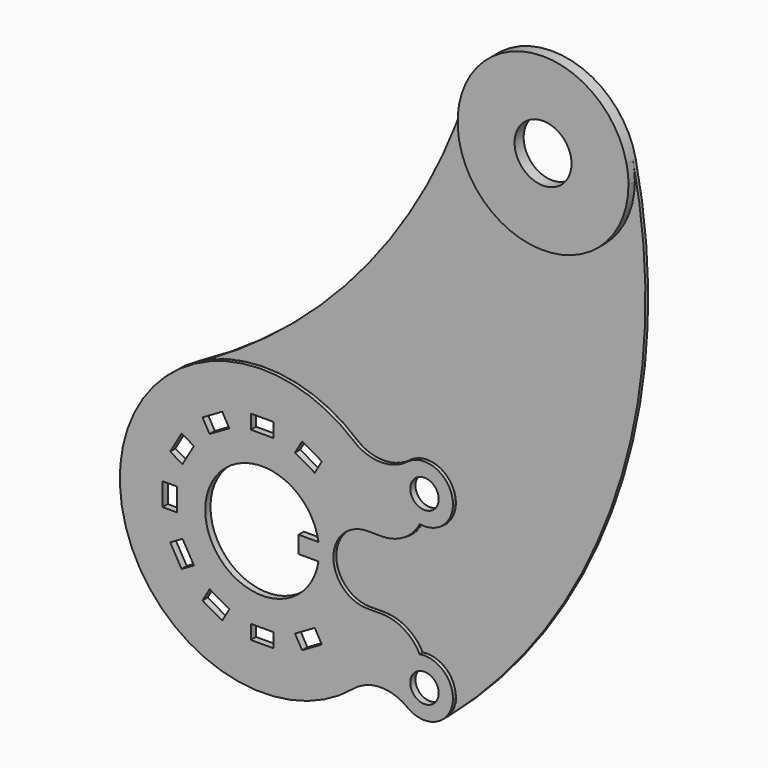
from build123d import *

# Parameters (mm, degrees)
F0_W     = 5
F0_H     = 8
F0_W_2   = 8
F0_H_2   = 5
F0_R     = 5
F1_DEPTH = 2.3
F0_R_2   = 10
F2_DEPTH = 4
F3_DEPTH = 1.2
F4_R     = 0.25


with BuildPart() as f1:
    # F0 (on Front) → F1 (new body)
    with BuildSketch(Plane.XZ):
        with BuildLine():
            ThreePointArc((48.188659, 13.336161), (42.052232, 27.048287), (32.119697, 38.31873))
            ThreePointArc((32.119697, 38.31873), (5.011181, 49.748247), (-23.832217, 43.954811))
            ThreePointArc((-23.832217, 43.954811), (-41.344945, -28.11753), (32.119697, -38.31873))
            ThreePointArc((32.119697, -38.31873), (42.052232, -27.048287), (48.188659, -13.336161))
            ThreePointArc((48.188659, -13.336161), (45.165629, -12.337845), (42, -12))
            Line((42, -12), (37, -12))
            ThreePointArc((37, -12), (25, 0), (37, 12))
            Line((37, 12), (42, 12))
            ThreePointArc((42, 12), (45.165629, 12.337845), (48.188659, 13.336161))
        make_face()
        Polygon((-14.035898, -32.310889), (-20.964102, -28.310889), (-18.464102, -23.980762), (-11.535898, -27.980762), align=None, mode=Mode.SUBTRACT)
        Polygon((-28.310889, -20.964102), (-32.310889, -14.035898), (-27.980762, -11.535898), (-23.980762, -18.464102), align=None, mode=Mode.SUBTRACT)
        with Locations((-32.5, 0)):
            Rectangle(F0_W, F0_H, mode=Mode.SUBTRACT)
        with Locations((0, -32.5)):
            Rectangle(F0_W_2, F0_H_2, mode=Mode.SUBTRACT)
        Polygon((20.964102, -28.310889), (14.035898, -32.310889), (11.535898, -27.980762), (18.464102, -23.980762), align=None, mode=Mode.SUBTRACT)
        with BuildLine():
            ThreePointArc((19.77372, 3), (19.94335, 1.504261), (20, 0))
            ThreePointArc((20, 0), (19.94335, -1.504261), (19.77372, -3))
            ThreePointArc((19.77372, -3), (-20, 0), (19.77372, 3))
        make_face(mode=Mode.SUBTRACT)
        Polygon((-32.310889, 14.035898), (-28.310889, 20.964102), (-23.980762, 18.464102), (-27.980762, 11.535898), align=None, mode=Mode.SUBTRACT)
        Polygon((-20.964102, 28.310889), (-14.035898, 32.310889), (-11.535898, 27.980762), (-18.464102, 23.980762), align=None, mode=Mode.SUBTRACT)
        with Locations((0, 32.5)):
            Rectangle(F0_W_2, F0_H_2, mode=Mode.SUBTRACT)
        Polygon((14.035898, 32.310889), (20.964102, 28.310889), (18.464102, 23.980762), (11.535898, 27.980762), align=None, mode=Mode.SUBTRACT)
        with BuildLine():
            ThreePointArc((50.902242, 37.92574), (41.441827, 34.817632), (32.119697, 38.31873))
            ThreePointArc((32.119697, 38.31873), (42.052232, 27.048287), (48.188659, 13.336161))
            ThreePointArc((48.188659, 13.336161), (52.339275, 16.132646), (55.33888, 20.138931))
            ThreePointArc((55.33888, 20.138931), (47.297285, 27.579811), (50.902242, 37.92574))
        make_face()
        with BuildLine():
            ThreePointArc((67, 30), (61.41715, 38.971554), (50.902242, 37.92574))
            ThreePointArc((50.902242, 37.92574), (47.297285, 27.579811), (55.33888, 20.138931))
            ThreePointArc((55.33888, 20.138931), (63.45712, 22.36419), (67, 30))
        make_face()
        with Locations((57, 30)):
            Circle(F0_R, mode=Mode.SUBTRACT)
        with BuildLine():
            ThreePointArc((48.188659, -13.336161), (42.052232, -27.048287), (32.119697, -38.31873))
            ThreePointArc((32.119697, -38.31873), (41.441827, -34.817632), (50.902242, -37.92574))
            ThreePointArc((50.902242, -37.92574), (47.297285, -27.579811), (55.33888, -20.138931))
            ThreePointArc((55.33888, -20.138931), (52.339275, -16.132646), (48.188659, -13.336161))
        make_face()
        with BuildLine():
            ThreePointArc((55.33888, -20.138931), (47.297285, -27.579811), (50.902242, -37.92574))
            ThreePointArc((50.902242, -37.92574), (57.251047, -39.996848), (63.487893, -37.609681))
            ThreePointArc((63.487893, -37.609681), (66.079618, -34.190529), (67, -30))
            ThreePointArc((67, -30), (63.45712, -22.36419), (55.33888, -20.138931))
        make_face()
        with Locations((57, -30)):
            Circle(F0_R, mode=Mode.SUBTRACT)
        with BuildLine():
            ThreePointArc((19.77372, -3), (19.94335, -1.504261), (20, 0))
            ThreePointArc((20, 0), (19.94335, 1.504261), (19.77372, 3))
            Line((19.77372, 3), (12.77372, 3))
            Line((12.77372, 3), (12.77372, 0))
            Line((12.77372, 0), (12.77372, -3))
            Line((12.77372, -3), (19.77372, -3))
        make_face()
    extrude(amount=F1_DEPTH)


with BuildPart() as f2:
    # F0 (on Front) → F2 (new body)
    with BuildSketch(Plane.XZ):
        with BuildLine():
            ThreePointArc((129.341759, 156.249893), (101.47474, 179.96373), (71.413772, 159.100964))
            ThreePointArc((71.413772, 159.100964), (95.39494, 120.35555), (130, 150))
            ThreePointArc((130, 150), (129.834986, 153.14223), (129.341759, 156.249893))
        make_face()
        with Locations((100, 150)):
            Circle(F0_R_2, mode=Mode.SUBTRACT)
    extrude(amount=F2_DEPTH)


with BuildPart() as f3:
    # F0 (on Front) → F3 (new body)
    with BuildSketch(Plane.XZ):
        with BuildLine():
            ThreePointArc((-23.832217, 43.954811), (5.011181, 49.748247), (32.119697, 38.31873))
            ThreePointArc((32.119697, 38.31873), (41.441827, 34.817632), (50.902242, 37.92574))
            ThreePointArc((50.902242, 37.92574), (61.41715, 38.971554), (67, 30))
            ThreePointArc((67, 30), (63.45712, 22.36419), (55.33888, 20.138931))
            ThreePointArc((55.33888, 20.138931), (52.339275, 16.132646), (48.188659, 13.336161))
            ThreePointArc((48.188659, 13.336161), (49.545095, 6.729304), (50, 0))
            ThreePointArc((50, 0), (49.545095, -6.729304), (48.188659, -13.336161))
            ThreePointArc((48.188659, -13.336161), (52.339275, -16.132646), (55.33888, -20.138931))
            ThreePointArc((55.33888, -20.138931), (63.45712, -22.36419), (67, -30))
            ThreePointArc((67, -30), (66.079618, -34.190529), (63.487893, -37.609681))
            ThreePointArc((63.487893, -37.609681), (123.101957, 50.25452), (129.341759, 156.249893))
            ThreePointArc((129.341759, 156.249893), (129.834986, 153.14223), (130, 150))
            ThreePointArc((130, 150), (95.39494, 120.35555), (71.413772, 159.100964))
            ThreePointArc((71.413772, 159.100964), (34.948921, 92.298153), (-23.832217, 43.954811))
        make_face()
        with BuildLine():
            ThreePointArc((50, 0), (49.545095, 6.729304), (48.188659, 13.336161))
            ThreePointArc((48.188659, 13.336161), (45.165629, 12.337845), (42, 12))
            Line((42, 12), (37, 12))
            ThreePointArc((37, 12), (25, 0), (37, -12))
            Line((37, -12), (42, -12))
            ThreePointArc((42, -12), (45.165629, -12.337845), (48.188659, -13.336161))
            ThreePointArc((48.188659, -13.336161), (49.545095, -6.729304), (50, 0))
        make_face()
    extrude(amount=F3_DEPTH)

    # F4
    f4_edges = [f3.edges().sort_by_distance(p)[0] for p in [
        (49.812937, -1.2, 14.195391),
        (39.5, -1.2, 12),
        (25, -1.2, 0),
        (66.702715, -1.2, 32.420189),
        (49.812937, -1.2, -14.195391),
        (39.5, -1.2, -12),
        (66.062627, -1.2, -25.772851),
        (41.441827, -1.2, 34.817632),
        (5.011181, -1.2, 49.748247),
    ]]
    fillet(f4_edges, radius=F4_R)


solid = Compound([f1.part, f2.part, f3.part])
